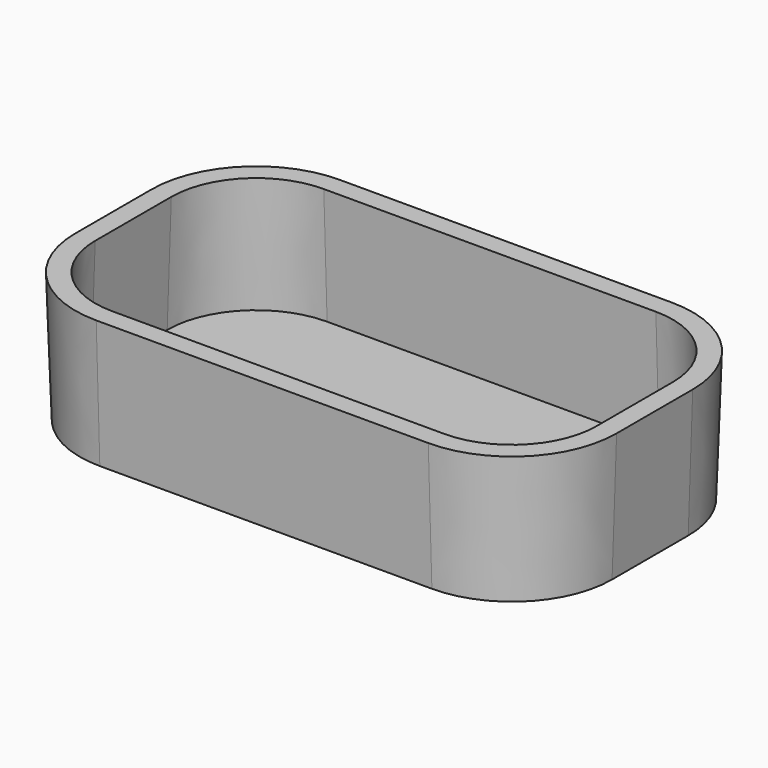
from build123d import *

# Parameters (mm, degrees)
F2_DEPTH = 25.4
F2_TAPER = -2
F4_DEPTH = 2.5
F4_TAPER = 2


with BuildPart() as f2:
    # F1 (on Top) → F2 (new body)
    with BuildSketch(Plane.XY):
        with BuildLine():
            Line((-35.6, -31.75), (35.6, -31.75))
            ThreePointArc((35.6, -31.75), (50.8381511346, -25.4381511346), (57.15, -10.2))
            Line((57.15, -10.2), (57.15, 10.2))
            ThreePointArc((57.15, 10.2), (50.8381511346, 25.4381511346), (35.6, 31.75))
            Line((35.6, 31.75), (-35.6, 31.75))
            ThreePointArc((-35.6, 31.75), (-50.8381511346, 25.4381511346), (-57.15, 10.2))
            Line((-57.15, 10.2), (-57.15, -10.2))
            ThreePointArc((-57.15, -10.2), (-50.8381511346, -25.4381511346), (-35.6, -31.75))
        make_face()
        with BuildLine():
            ThreePointArc((54.65, -10.2), (49.0703841816, -23.6703841816), (35.6, -29.25))
            Line((35.6, -29.25), (-35.6, -29.25))
            ThreePointArc((-35.6, -29.25), (-49.0703841816, -23.6703841816), (-54.65, -10.2))
            Line((-54.65, -10.2), (-54.65, 10.2))
            ThreePointArc((-54.65, 10.2), (-49.0703841816, 23.6703841816), (-35.6, 29.25))
            Line((-35.6, 29.25), (35.6, 29.25))
            ThreePointArc((35.6, 29.25), (49.0703841816, 23.6703841816), (54.65, 10.2))
            Line((54.65, 10.2), (54.65, -10.2))
        make_face(mode=Mode.SUBTRACT)
    extrude(amount=F2_DEPTH, taper=F2_TAPER)

    # F3 (on Top) → F4 (join)
    with BuildSketch(Plane.XY):
        with BuildLine():
            Line((-35.6, -31.75), (35.6, -31.75))
            ThreePointArc((35.6, -31.75), (50.8381511346, -25.4381511346), (57.15, -10.2))
            Line((57.15, -10.2), (57.15, 10.2))
            ThreePointArc((57.15, 10.2), (50.8381511346, 25.4381511346), (35.6, 31.75))
            Line((35.6, 31.75), (-35.6, 31.75))
            ThreePointArc((-35.6, 31.75), (-50.8381511346, 25.4381511346), (-57.15, 10.2))
            Line((-57.15, 10.2), (-57.15, -10.2))
            ThreePointArc((-57.15, -10.2), (-50.8381511346, -25.4381511346), (-35.6, -31.75))
        make_face()
    extrude(amount=-F4_DEPTH, taper=F4_TAPER)


solid = f2.part
